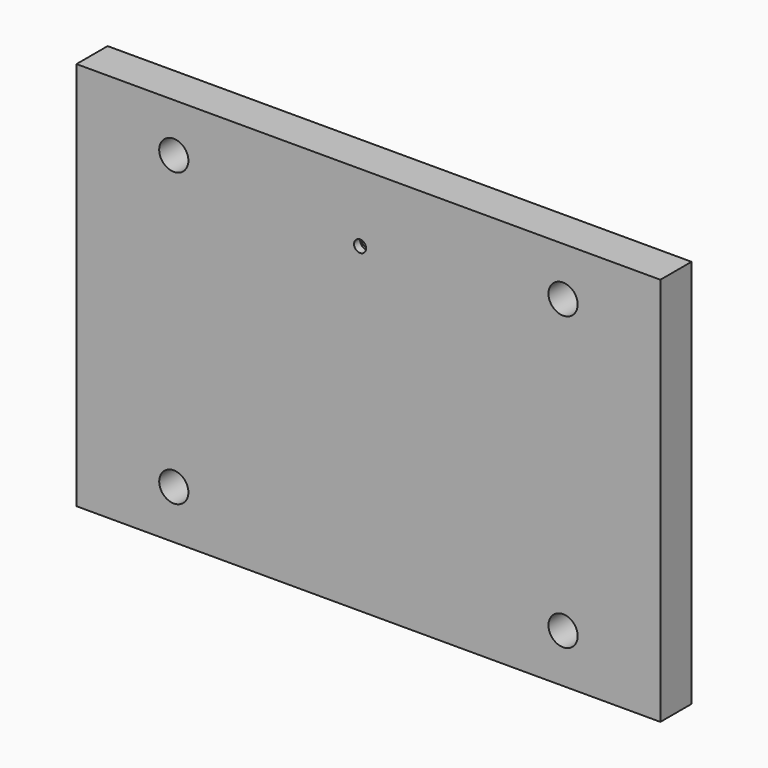
from build123d import *

# Parameters (mm, degrees)
F0_W           = 1524
F0_H           = 1016
F0_R           = 38.1
F1_DEPTH       = 101.6
F5_D           = 22
F5_CBORE_D     = 31.5
F5_CBORE_DEPTH = 20


with BuildPart() as f1:
    # F0 (on Front) → F1 (new body)
    with BuildSketch(Plane.XZ):
        with Locations((21.7913445085, 50.0460547454)):
            Rectangle(F0_W, F0_H)
        with Locations((-486.2086554915, -330.9539452546)):
            Circle(F0_R, mode=Mode.SUBTRACT)
        with Locations((529.7913445085, -330.9539452546)):
            Circle(F0_R, mode=Mode.SUBTRACT)
        with Locations((-486.2086554915, 431.0460547454)):
            Circle(F0_R, mode=Mode.SUBTRACT)
        with Locations((529.7913445085, 431.0460547454)):
            Circle(F0_R, mode=Mode.SUBTRACT)
    extrude(amount=F1_DEPTH)

    # F2 (on Top) → F3 (revolve)
    with BuildSketch(Plane.XY):
        Polygon((50.8, 508), (50.8, 0), (254, 0), (152.4, 508), align=None)
    revolve(axis=Axis((0, 140.2586251497, 0), (0, 1, 0)))

    # F5 (through all)
    with Locations(Plane.XZ.offset(101.6)):
        with Locations((0, 380.2460547454)):
            CounterBoreHole(F5_D / 2, F5_CBORE_D / 2, F5_CBORE_DEPTH)


solid = f1.part
